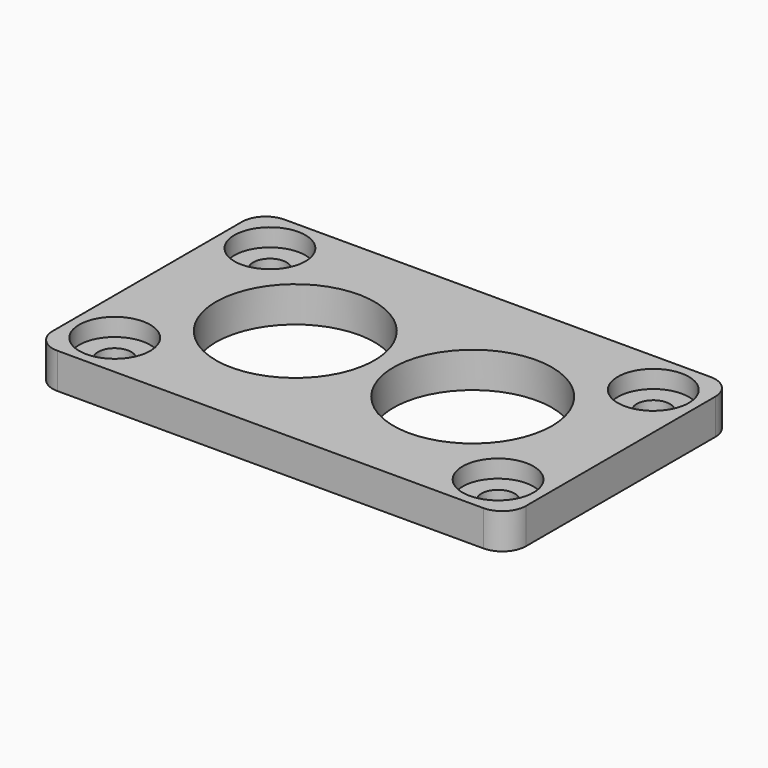
from build123d import *

# Parameters (mm, degrees)
SKETCH048_W         = 40
SKETCH048_H         = 24
PAD013_DEPTH        = 3
HOLE020_D           = 2.8
HOLE020_DEPTH       = 25
HOLE020_CBORE_D     = 6
HOLE020_CBORE_DEPTH = 1.5
SKETCH050_R         = 6.7
HOLE021_DEPTH       = 25
FILLET025_R         = 2


with BuildPart() as part:
    # Sketch048 → Pad013 (new body)
    with BuildSketch(Plane.XY):
        Rectangle(SKETCH048_W, SKETCH048_H)
    extrude(amount=PAD013_DEPTH)

    # Hole020
    with Locations(Plane.XY.offset(3)):
        with Locations((16.2, 8.2), (16.2, -8.2)):
            hole020 = CounterBoreHole(HOLE020_D / 2, HOLE020_CBORE_D / 2, HOLE020_CBORE_DEPTH, depth=HOLE020_DEPTH)

    # Mirrored023: Hole020 across Sketch049 V_Axis
    add(hole020.mirror(Plane(origin=(0, 0, 3), x_dir=(0, 0, 1), z_dir=(1, 0, 0))), mode=Mode.SUBTRACT)

    # Sketch050 (on Face5 of Mirrored023) → Hole021 (cut)
    with BuildSketch(Plane.XY.offset(3)):
        with Locations((7.5, 0)):
            Circle(SKETCH050_R)
    hole021 = extrude(amount=-HOLE021_DEPTH, mode=Mode.SUBTRACT)

    # Mirrored024: Hole021 across Sketch050 V_Axis
    add(hole021.mirror(Plane(origin=(0, 0, 3), x_dir=(0, 0, 1), z_dir=(1, 0, 0))), mode=Mode.SUBTRACT)

    # Fillet025
    fillet025_edges = [part.edges().sort_by_distance(p)[0] for p in [
        (20, 12, 1.5),
        (-20, 12, 1.5),
        (-20, -12, 1.5),
        (20, -12, 1.5),
    ]]
    fillet(fillet025_edges, radius=FILLET025_R)


solid = part.part
